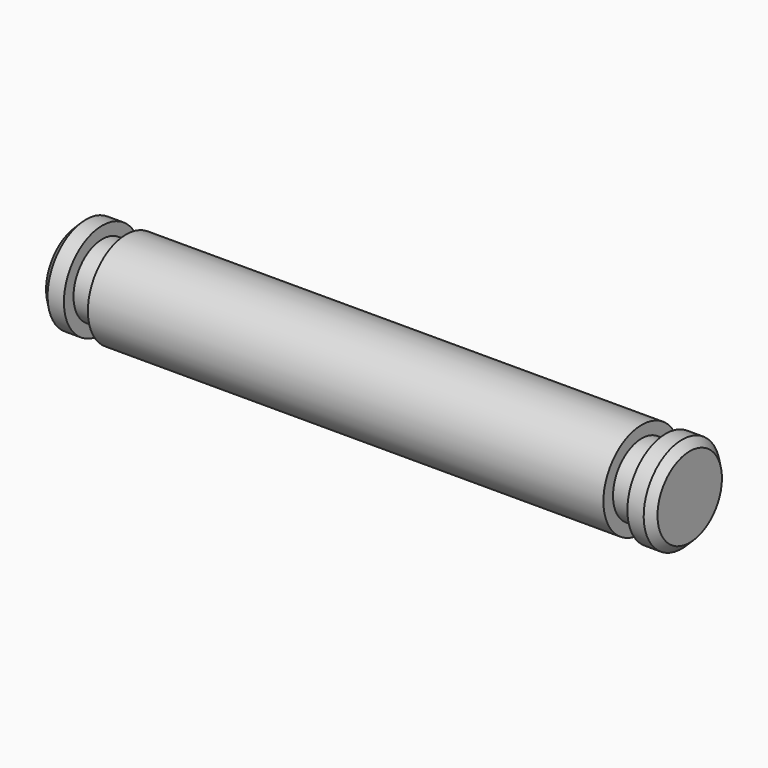
from build123d import *

# Parameters (mm, degrees)
F2_SIZE = 0.508


with BuildPart() as f1:
    # F0 (on Front) → F1 (revolve)
    with BuildSketch(Plane.XZ):
        Polygon((0, 3.175), (0, 0), (40.4876, 0), (40.4876, 3.175), (38.9001, 3.175), (38.9001, 2.38125), (37.3126, 2.38125), (37.3126, 3.175), (3.175, 3.175), (3.175, 2.38125), (1.5875, 2.38125), (1.5875, 3.175), align=None)
    revolve(axis=Axis((20.2438, 0, 0), (-1, 0, 0)))

    # F2
    f2_edges = [f1.edges().sort_by_distance(p)[0] for p in [
        (40.4876, 0, -3.175),
        (0, 0, -3.175),
    ]]
    chamfer(f2_edges, length=F2_SIZE)


solid = f1.part
